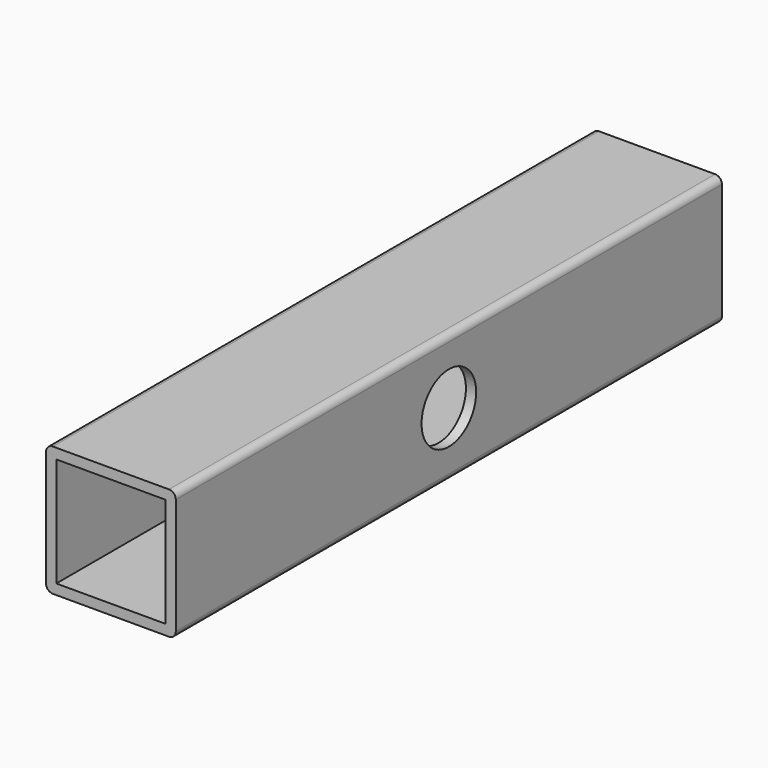
from build123d import *

# Parameters (mm, degrees)
F0_W     = 19
F0_H     = 19
F0_W_2   = 16
F0_H_2   = 16
F2_DEPTH = 50
F1_R     = 5
F3_DEPTH = 12.5
F4_R     = 1


with BuildPart() as f2:
    # F0 (on Front) → F2 (new body, symmetric)
    with BuildSketch(Plane.XZ):
        Rectangle(F0_W, F0_H)
        Rectangle(F0_W_2, F0_H_2, mode=Mode.SUBTRACT)
    extrude(amount=F2_DEPTH, both=True)

    # F1 (on Right) → F3 (cut, symmetric)
    with BuildSketch(Plane.YZ):
        Circle(F1_R)
    extrude(amount=F3_DEPTH, both=True, mode=Mode.SUBTRACT)

    # F4
    f4_edges = [f2.edges().sort_by_distance(p)[0] for p in [
        (9.5, 0, 9.5),
        (-9.5, 0, 9.5),
        (9.5, 0, -9.5),
        (-9.5, 0, -9.5),
    ]]
    fillet(f4_edges, radius=F4_R)


solid = f2.part
